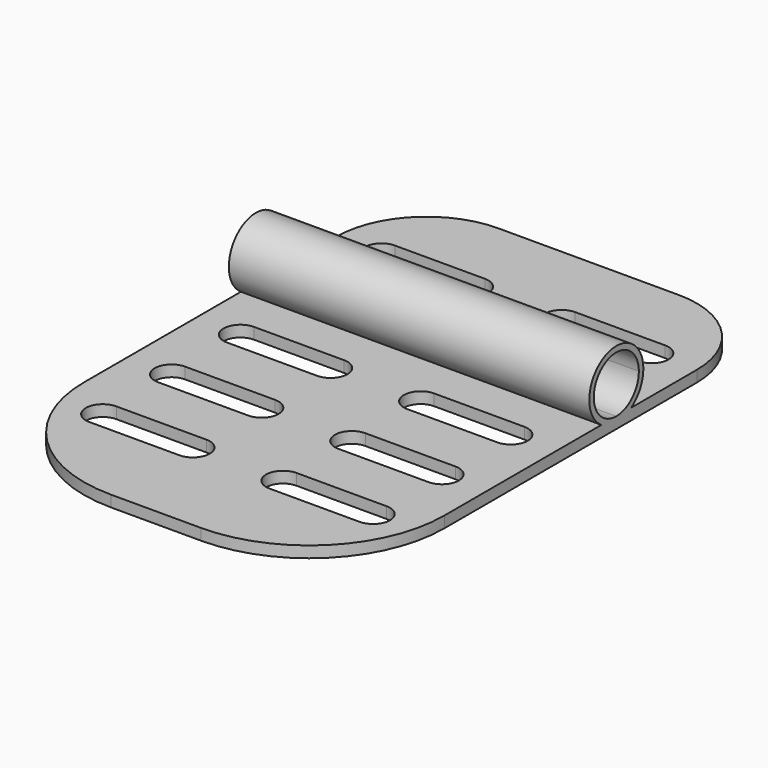
from build123d import *

# Parameters (mm, degrees)
F1_DEPTH      = 101.6
F1_DEPTH_BACK = 101.6
F3_DEPTH      = 25.4
F5_DEPTH      = 25.4
F6_R          = 50.8


with BuildPart() as f1:
    # F0 (on Right) → F1 (new body, two sides)
    with BuildSketch(Plane.YZ) as f1_sk:
        with BuildLine():
            Line((50.8, -15.875), (0, -15.875))
            Line((0, -15.875), (-46.1643691758, -15.875))
            ThreePointArc((-46.1643691758, -15.875), (-56.6946528852, -19.05), (-67.2249365946, -15.875))
            Line((-67.2249365946, -15.875), (-254, -15.875))
            Line((-254, -15.875), (-254, -22.225))
            Line((-254, -22.225), (50.8, -22.225))
            Line((50.8, -22.225), (50.8, -15.875))
        make_face()
        with BuildLine():
            ThreePointArc((-67.2249365946, -15.875), (-56.6946528852, -19.05), (-46.1643691758, -15.875))
            Line((-46.1643691758, -15.875), (-56.6946528852, -15.875))
            Line((-56.6946528852, -15.875), (-67.2249365946, -15.875))
        make_face()
        with BuildLine():
            Line((-56.6946528852, -15.875), (-46.1643691758, -15.875))
            ThreePointArc((-46.1643691758, -15.875), (-39.9091769512, -9.0083460007), (-37.6446528852, 0))
            ThreePointArc((-37.6446528852, 0), (-65.7029988859, 16.785475934), (-67.2249365946, -15.875))
            Line((-67.2249365946, -15.875), (-56.6946528852, -15.875))
        make_face()
        with BuildLine():
            ThreePointArc((-40.8196528852, 0), (-45.4693327339, -11.2253201513), (-56.6946528852, -15.875))
            ThreePointArc((-56.6946528852, -15.875), (-67.9199730365, 11.2253201513), (-40.8196528852, 0))
        make_face(mode=Mode.SUBTRACT)
    extrude(amount=F1_DEPTH)
    extrude(f1_sk.sketch, amount=-F1_DEPTH_BACK)

    # F2 (on face) → F3 (cut)
    with BuildSketch(Plane.XY.offset(-15.875)):
        with BuildLine():
            Line((-101.6, -177.8), (-101.6, -254))
            Line((-101.6, -254), (-25.4, -254))
            ThreePointArc((-25.4, -254), (-79.2815367264, -231.6815367264), (-101.6, -177.8))
        make_face()
        with BuildLine():
            Line((101.6, -254), (101.6, -177.8))
            ThreePointArc((101.6, -177.8), (79.2815367264, -231.6815367264), (25.4, -254))
            Line((25.4, -254), (101.6, -254))
        make_face()
    extrude(amount=-F3_DEPTH, mode=Mode.SUBTRACT)

    # F4 (on face) → F5 (cut)
    with BuildSketch(Plane.XY.offset(-15.875)):
        with BuildLine():
            ThreePointArc((25.4, 9.525), (15.875, 0), (25.4, -9.525))
            Line((25.4, -9.525), (76.2, -9.525))
            ThreePointArc((76.2, -9.525), (85.725, 0), (76.2, 9.525))
            Line((76.2, 9.525), (25.4, 9.525))
        make_face()
        with BuildLine():
            Line((-76.2, -9.525), (-25.4, -9.525))
            ThreePointArc((-25.4, -9.525), (-18.6648079092, -6.7351920908), (-15.875, 0))
            ThreePointArc((-15.875, 0), (-18.6648079092, 6.7351920908), (-25.4, 9.525))
            Line((-25.4, 9.525), (-76.2, 9.525))
            ThreePointArc((-76.2, 9.525), (-85.725, 0), (-76.2, -9.525))
        make_face()
        with BuildLine():
            Line((-25.4, -89.789), (-76.2, -89.789))
            ThreePointArc((-76.2, -89.789), (-85.725, -99.314), (-76.2, -108.839))
            Line((-76.2, -108.839), (-25.4, -108.839))
            ThreePointArc((-25.4, -108.839), (-15.875, -99.314), (-25.4, -89.789))
        make_face()
        with BuildLine():
            Line((-25.4, -138.303), (-76.2, -138.303))
            ThreePointArc((-76.2, -138.303), (-85.725, -147.828), (-76.2, -157.353))
            Line((-76.2, -157.353), (-25.4, -157.353))
            ThreePointArc((-25.4, -157.353), (-15.875, -147.828), (-25.4, -138.303))
        make_face()
        with BuildLine():
            Line((-25.4, -186.817), (-76.2, -186.817))
            ThreePointArc((-76.2, -186.817), (-85.725, -196.342), (-76.2, -205.867))
            Line((-76.2, -205.867), (-25.4, -205.867))
            ThreePointArc((-25.4, -205.867), (-15.875, -196.342), (-25.4, -186.817))
        make_face()
        with BuildLine():
            ThreePointArc((25.4, -186.817), (15.875, -196.342), (25.4, -205.867))
            Line((25.4, -205.867), (76.2, -205.867))
            ThreePointArc((76.2, -205.867), (85.725, -196.342), (76.2, -186.817))
            Line((76.2, -186.817), (25.4, -186.817))
        make_face()
        with BuildLine():
            ThreePointArc((25.4, -138.303), (15.875, -147.828), (25.4, -157.353))
            Line((25.4, -157.353), (76.2, -157.353))
            ThreePointArc((76.2, -157.353), (85.725, -147.828), (76.2, -138.303))
            Line((76.2, -138.303), (25.4, -138.303))
        make_face()
        with BuildLine():
            ThreePointArc((76.2, -108.839), (85.725, -99.314), (76.2, -89.789))
            Line((76.2, -89.789), (25.4, -89.789))
            ThreePointArc((25.4, -89.789), (15.875, -99.314), (25.4, -108.839))
            Line((25.4, -108.839), (76.2, -108.839))
        make_face()
    extrude(amount=-F5_DEPTH, mode=Mode.SUBTRACT)

    # F6
    f6_edges = [f1.edges().sort_by_distance(p)[0] for p in [
        (101.6, 50.8, -19.05),
        (-101.6, 50.8, -19.05),
    ]]
    fillet(f6_edges, radius=F6_R)


solid = f1.part
